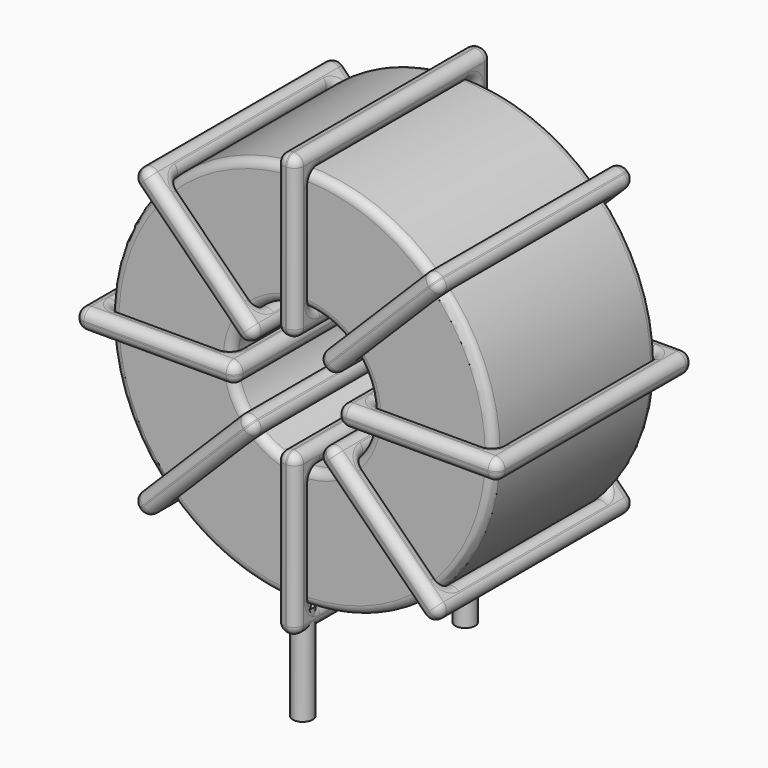
from build123d import *

# Parameters (mm, degrees)
SKETCH001_R       = 0.6
PAD001_DEPTH      = 1.2
PAD001_DEPTH_BACK = 4.7
SKETCH_R          = 11.5
SKETCH_R_2        = 4.233333
PAD_DEPTH         = 6.15
FILLET_R          = 0.5
SKETCH003_W       = 9.666667
SKETCH003_H       = 14.7
SKETCH003_W_2     = 7.266667
SKETCH003_H_2     = 12.3
PAD002_DEPTH      = 0.6
FILLET001_R       = 0.564
SKETCH004_W       = 9.666667
SKETCH004_H       = 14.7
SKETCH004_W_2     = 7.266667
SKETCH004_H_2     = 12.3
PAD003_DEPTH      = 0.6
FILLET002_R       = 0.564
SKETCH005_W       = 9.666667
SKETCH005_H       = 14.7
SKETCH005_W_2     = 7.266667
SKETCH005_H_2     = 12.3
PAD004_DEPTH      = 0.6
FILLET003_R       = 0.564
SKETCH006_W       = 9.666667
SKETCH006_H       = 14.7
SKETCH006_W_2     = 7.266667
SKETCH006_H_2     = 12.3
PAD005_DEPTH      = 0.6
FILLET004_R       = 0.564


with BuildPart() as pad001:
    # Sketch001 → Pad001 (new body, two sides)
    with BuildSketch(Plane.XY.offset(1.7)) as pad001_sk:
        Circle(SKETCH001_R)
        with Locations((0, -12.2)):
            Circle(SKETCH001_R)
    extrude(amount=PAD001_DEPTH)
    extrude(pad001_sk.sketch, amount=-PAD001_DEPTH_BACK)


with BuildPart() as fillet_body:
    # Sketch → Pad (new body, symmetric)
    with BuildSketch(Plane.XZ.offset(6.1)):
        with Locations((0, 14.4)):
            Circle(SKETCH_R)
        with Locations((0, 14.4)):
            Circle(SKETCH_R_2, mode=Mode.SUBTRACT)
    extrude(amount=PAD_DEPTH, both=True)

    # Fillet
    fillet_edges = [fillet_body.edges().sort_by_distance(p)[0] for p in [
        (-4.233333, -12.25, 14.4),
        (-11.5, -12.25, 14.4),
        (-11.5, 0.05, 14.4),
    ]]
    fillet(fillet_edges, radius=FILLET_R)


with BuildPart() as fillet001:
    # Sketch003 → Pad002 (new body, symmetric)
    with BuildSketch(Plane(origin=(0, 1.25, 14.4), x_dir=(1, 0, 0), z_dir=(0, 0, -1))):
        with Locations((-7.866666, 7.35)):
            Rectangle(SKETCH003_W, SKETCH003_H)
        with Locations((-7.866667, 7.35)):
            Rectangle(SKETCH003_W_2, SKETCH003_H_2, mode=Mode.SUBTRACT)
        with Locations((7.866666, 7.35)):
            Rectangle(SKETCH003_W, SKETCH003_H)
        with Locations((7.866667, 7.35)):
            Rectangle(SKETCH003_W_2, SKETCH003_H_2, mode=Mode.SUBTRACT)
    extrude(amount=PAD002_DEPTH, both=True)

    # Fillet001
    fillet001_edges = [fillet001.edges().sort_by_distance(p)[0] for p in [
        (-4.233333, -12.25, 14.4),
        (-4.233333, 0.05, 14.4),
        (-4.233333, -6.1, 15),
        (-4.233333, -6.1, 13.8),
        (-12.7, -13.45, 14.4),
        (-3.033333, -13.45, 14.4),
        (-7.866667, -13.45, 15),
        (-7.866667, -13.45, 13.8),
        (-3.033333, 1.25, 14.4),
        (-3.033333, -6.1, 15),
        (-3.033333, -6.1, 13.8),
        (4.233333, -12.25, 14.4),
        (11.5, -12.25, 14.4),
        (7.866667, -12.25, 15),
        (7.866667, -12.25, 13.8),
        (11.5, 0.05, 14.4),
        (11.5, -6.1, 15),
        (11.5, -6.1, 13.8),
        (3.033333, -13.45, 14.4),
        (12.7, -13.45, 14.4),
        (7.866667, -13.45, 15),
        (7.866667, -13.45, 13.8),
        (12.7, 1.25, 14.4),
        (12.7, -6.1, 15),
        (12.7, -6.1, 13.8),
        (-11.5, -12.25, 14.4),
        (-7.866667, -12.25, 15),
        (-7.866667, -12.25, 13.8),
        (4.233333, 0.05, 14.4),
        (4.233333, -6.1, 15),
        (4.233333, -6.1, 13.8),
        (7.866667, 0.05, 15),
        (7.866667, 0.05, 13.8),
        (3.033333, 1.25, 14.4),
        (7.866667, 1.25, 15),
        (7.866667, 1.25, 13.8),
        (3.033333, -6.1, 15),
        (3.033333, -6.1, 13.8),
        (-12.7, 1.25, 14.4),
        (-7.866667, 1.25, 15),
        (-7.866667, 1.25, 13.8),
        (-12.7, -6.1, 15),
        (-12.7, -6.1, 13.8),
        (-11.5, 0.05, 14.4),
        (-11.5, -6.1, 15),
        (-11.5, -6.1, 13.8),
        (-7.866667, 0.05, 15),
        (-7.866667, 0.05, 13.8),
    ]]
    fillet(fillet001_edges, radius=FILLET001_R)


with BuildPart() as fillet002:
    # Sketch004 → Pad003 (new body, symmetric)
    with BuildSketch(Plane(origin=(0, 1.25, 14.4), x_dir=(0.707108, 0, 0.707106), z_dir=(0.707106, 0, -0.707108))):
        with Locations((-7.866666, 7.35)):
            Rectangle(SKETCH004_W, SKETCH004_H)
        with Locations((-7.866667, 7.35)):
            Rectangle(SKETCH004_W_2, SKETCH004_H_2, mode=Mode.SUBTRACT)
        with Locations((7.866666, 7.35)):
            Rectangle(SKETCH004_W, SKETCH004_H)
        with Locations((7.866667, 7.35)):
            Rectangle(SKETCH004_W_2, SKETCH004_H_2, mode=Mode.SUBTRACT)
    extrude(amount=PAD003_DEPTH, both=True)

    # Fillet002
    fillet002_edges = [fillet002.edges().sort_by_distance(p)[0] for p in [
        (-2.993422, -12.25, 11.406585),
        (-2.993422, 0.05, 11.406585),
        (-3.417686, -6.1, 11.830849),
        (-2.569159, -6.1, 10.98232),
        (-8.980267, -13.45, 5.419754),
        (-2.144893, -13.45, 12.255112),
        (-5.986843, -13.45, 9.261698),
        (-5.138316, -13.45, 8.413169),
        (-2.144893, 1.25, 12.255112),
        (-2.569157, -6.1, 12.679376),
        (-1.720629, -6.1, 11.830847),
        (2.993422, -12.25, 17.393415),
        (8.131737, -12.25, 22.531719),
        (5.138316, -12.25, 20.386831),
        (5.986843, -12.25, 19.538302),
        (8.131737, 0.05, 22.531719),
        (7.707474, -6.1, 22.955983),
        (8.556001, -6.1, 22.107454),
        (2.144893, 1.25, 16.544888),
        (2.144893, -13.45, 16.544888),
        (1.720629, -6.1, 16.969153),
        (2.569157, -6.1, 16.120624),
        (8.980267, 1.25, 23.380246),
        (5.138316, 1.25, 20.386831),
        (5.986843, 1.25, 19.538302),
        (-8.131737, -12.25, 6.268281),
        (-5.986843, -12.25, 9.261698),
        (-5.138316, -12.25, 8.413169),
        (2.993422, 0.05, 17.393415),
        (2.569159, -6.1, 17.81768),
        (3.417686, -6.1, 16.969151),
        (5.138316, 0.05, 20.386831),
        (5.986843, 0.05, 19.538302),
        (8.980267, -13.45, 23.380246),
        (8.556003, -6.1, 23.80451),
        (9.40453, -6.1, 22.955981),
        (5.138316, -13.45, 20.386831),
        (5.986843, -13.45, 19.538302),
        (-8.980267, 1.25, 5.419754),
        (-5.986843, 1.25, 9.261698),
        (-5.138316, 1.25, 8.413169),
        (-9.40453, -6.1, 5.844019),
        (-8.556003, -6.1, 4.99549),
        (-8.131737, 0.05, 6.268281),
        (-8.556001, -6.1, 6.692546),
        (-7.707474, -6.1, 5.844017),
        (-5.986843, 0.05, 9.261698),
        (-5.138316, 0.05, 8.413169),
    ]]
    fillet(fillet002_edges, radius=FILLET002_R)


with BuildPart() as fillet003:
    # Sketch005 → Pad004 (new body, symmetric)
    with BuildSketch(Plane(origin=(0, 1.25, 14.4), x_dir=(0.707108, 0, -0.707106), z_dir=(-0.707106, 0, -0.707108))):
        with Locations((-7.866666, 7.35)):
            Rectangle(SKETCH005_W, SKETCH005_H)
        with Locations((-7.866667, 7.35)):
            Rectangle(SKETCH005_W_2, SKETCH005_H_2, mode=Mode.SUBTRACT)
        with Locations((7.866666, 7.35)):
            Rectangle(SKETCH005_W, SKETCH005_H)
        with Locations((7.866667, 7.35)):
            Rectangle(SKETCH005_W_2, SKETCH005_H_2, mode=Mode.SUBTRACT)
    extrude(amount=PAD004_DEPTH, both=True)

    # Fillet003
    fillet003_edges = [fillet003.edges().sort_by_distance(p)[0] for p in [
        (2.993422, -12.25, 11.406585),
        (8.131737, 0.05, 6.268281),
        (5.986843, 0.05, 9.261698),
        (5.138316, 0.05, 8.413169),
        (8.980267, 1.25, 5.419754),
        (8.980267, -13.45, 5.419754),
        (9.40453, -6.1, 5.844019),
        (8.556003, -6.1, 4.99549),
        (2.144893, 1.25, 12.255112),
        (5.986843, -13.45, 9.261698),
        (5.138316, -13.45, 8.413169),
        (-8.131737, -12.25, 22.531719),
        (-2.993422, -12.25, 17.393415),
        (-5.138316, -12.25, 20.386831),
        (-5.986843, -12.25, 19.538302),
        (-2.993422, 0.05, 17.393415),
        (-2.569159, -6.1, 17.81768),
        (-3.417686, -6.1, 16.969151),
        (-2.144893, 1.25, 16.544888),
        (-8.980267, 1.25, 23.380246),
        (-5.138316, 1.25, 20.386831),
        (-5.986843, 1.25, 19.538302),
        (-8.980267, -13.45, 23.380246),
        (-8.556003, -6.1, 23.80451),
        (-9.40453, -6.1, 22.955981),
        (2.993422, 0.05, 11.406585),
        (3.417686, -6.1, 11.830849),
        (2.569159, -6.1, 10.98232),
        (-8.131737, 0.05, 22.531719),
        (-7.707474, -6.1, 22.955983),
        (-8.556001, -6.1, 22.107454),
        (-5.138316, 0.05, 20.386831),
        (-5.986843, 0.05, 19.538302),
        (-2.144893, -13.45, 16.544888),
        (-5.138316, -13.45, 20.386831),
        (-5.986843, -13.45, 19.538302),
        (-1.720629, -6.1, 16.969153),
        (-2.569157, -6.1, 16.120624),
        (2.144893, -13.45, 12.255112),
        (2.569157, -6.1, 12.679376),
        (1.720629, -6.1, 11.830847),
        (5.986843, 1.25, 9.261698),
        (5.138316, 1.25, 8.413169),
        (8.131737, -12.25, 6.268281),
        (5.986843, -12.25, 9.261698),
        (5.138316, -12.25, 8.413169),
        (8.556001, -6.1, 6.692546),
        (7.707474, -6.1, 5.844017),
    ]]
    fillet(fillet003_edges, radius=FILLET003_R)


with BuildPart() as fillet004:
    # Sketch006 → Pad005 (new body, symmetric)
    with BuildSketch(Plane(origin=(0, 1.25, 14.4), x_dir=(0, 0, 1), z_dir=(1, 0, 0))):
        with Locations((-7.866666, 7.35)):
            Rectangle(SKETCH006_W, SKETCH006_H)
        with Locations((-7.866667, 7.35)):
            Rectangle(SKETCH006_W_2, SKETCH006_H_2, mode=Mode.SUBTRACT)
        with Locations((7.866666, 7.35)):
            Rectangle(SKETCH006_W, SKETCH006_H)
        with Locations((7.866667, 7.35)):
            Rectangle(SKETCH006_W_2, SKETCH006_H_2, mode=Mode.SUBTRACT)
    extrude(amount=PAD005_DEPTH, both=True)

    # Fillet004
    fillet004_edges = [fillet004.edges().sort_by_distance(p)[0] for p in [
        (0, -12.25, 10.166667),
        (0, 0.05, 10.166667),
        (-0.6, -6.1, 10.166667),
        (0.6, -6.1, 10.166667),
        (0, -13.45, 1.7),
        (0, -13.45, 11.366667),
        (-0.6, -13.45, 6.533333),
        (0.6, -13.45, 6.533333),
        (0, 1.25, 11.366667),
        (-0.6, -6.1, 11.366667),
        (0.6, -6.1, 11.366667),
        (0, -12.25, 18.633333),
        (0, -12.25, 25.9),
        (-0.6, -12.25, 22.266667),
        (0.6, -12.25, 22.266667),
        (0, 0.05, 25.9),
        (-0.6, -6.1, 25.9),
        (0.6, -6.1, 25.9),
        (0, -13.45, 17.433333),
        (0, -13.45, 27.1),
        (-0.6, -13.45, 22.266667),
        (0.6, -13.45, 22.266667),
        (0, 1.25, 27.1),
        (-0.6, -6.1, 27.1),
        (0.6, -6.1, 27.1),
        (0, -12.25, 2.9),
        (-0.6, -12.25, 6.533333),
        (0.6, -12.25, 6.533333),
        (0, 0.05, 18.633333),
        (-0.6, -6.1, 18.633333),
        (0.6, -6.1, 18.633333),
        (-0.6, 0.05, 22.266667),
        (0.6, 0.05, 22.266667),
        (0, 1.25, 17.433333),
        (-0.6, 1.25, 22.266667),
        (0.6, 1.25, 22.266667),
        (-0.6, -6.1, 17.433333),
        (0.6, -6.1, 17.433333),
        (0, 1.25, 1.7),
        (-0.6, 1.25, 6.533333),
        (0.6, 1.25, 6.533333),
        (-0.6, -6.1, 1.7),
        (0.6, -6.1, 1.7),
        (0, 0.05, 2.9),
        (-0.6, -6.1, 2.9),
        (0.6, -6.1, 2.9),
        (-0.6, 0.05, 6.533333),
        (0.6, 0.05, 6.533333),
    ]]
    fillet(fillet004_edges, radius=FILLET004_R)


solid = Compound([pad001.part, fillet_body.part, fillet001.part, fillet002.part, fillet003.part, fillet004.part])
